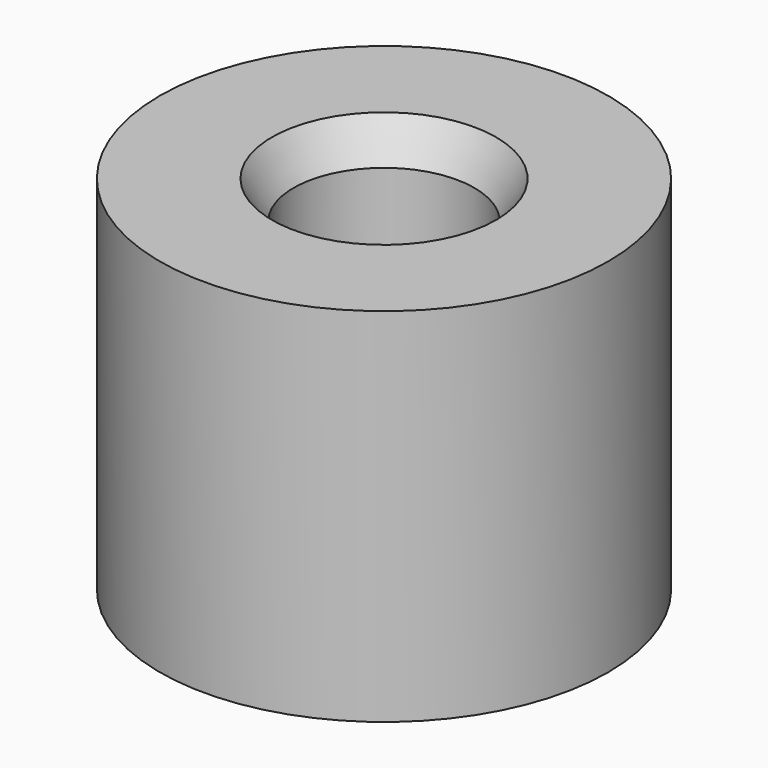
from build123d import *

# Parameters (mm, degrees)
F0_R     = 3.1
F0_R_2   = 1.25
F1_DEPTH = 5
F2_SIZE2 = 0.5196152423
F2_SIZE  = 0.3


with BuildPart() as f1:
    # F0 (on Top) → F1 (new body)
    with BuildSketch(Plane.XY):
        Circle(F0_R)
        Circle(F0_R_2, mode=Mode.SUBTRACT)
    extrude(amount=F1_DEPTH)

    # F2
    f2_edges = [f1.edges().sort_by_distance(p)[0] for p in [
        (-1.25, 0, 5),
    ]]
    f2_side = f1.faces().sort_by_distance((-3.012319, 0, 5))[0]
    chamfer(f2_edges, length=F2_SIZE, length2=F2_SIZE2, reference=f2_side)


solid = f1.part
